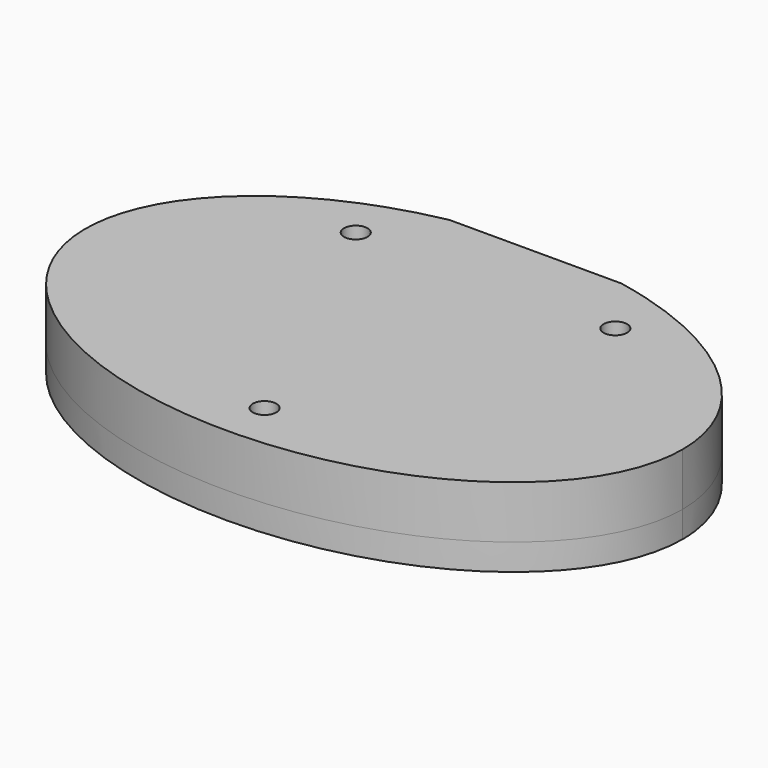
from build123d import *

# Parameters (mm, degrees)
PAD_DEPTH       = 6
POCKET_DEPTH    = 3
PAD001_DEPTH    = 3
SKETCH003_W     = 56
SKETCH003_H     = 3
POCKET001_DEPTH = 3
SKETCH004_W     = 19.6
SKETCH004_H     = 1
POCKET002_DEPTH = 9.001
SKETCH005_R     = 1.34
POCKET003_DEPTH = 9.001


with BuildPart() as part:
    # Sketch → Pad (new body)
    with BuildSketch(Plane.XY):
        with BuildLine():
            add(Edge.make_bspline(
                [(34, 0), (34, 38.971143), (-17, 19.485572), (-68, 0), (-17, -19.485572), (34, -38.971143), (34, 0)],
                knots=[0, 0, 0, 2.094395, 2.094395, 4.18879, 4.18879, 6.283185, 6.283185, 6.283185], degree=2, weights=[1, 0.5, 1, 0.5, 1, 0.5, 1]))
        make_face()
    extrude(amount=PAD_DEPTH)

    # Sketch001 (on Face2 of Pad) → Pocket (cut)
    with BuildSketch(Plane(origin=(0, 0, 0), x_dir=(1, 0, 0), z_dir=(0, 0, -1))):
        Polygon((9.775, -3.450064), (9.775, -21.550064), (-9.775, -21.550064), (-9.775, -3.450064), (-28.5, -3.450064), (-28.5, 8.549936), (28.5, 8.549936), (28.5, -3.450064), align=None)
    extrude(amount=-POCKET_DEPTH, mode=Mode.SUBTRACT)

    # Sketch002 (on Face2 of Pocket) → Pad001 (join)
    with BuildSketch(Plane(origin=(0, 0, 0), x_dir=(1, 0, 0), z_dir=(0, 0, -1))):
        with BuildLine():
            add(Edge.make_bspline(
                [(34, 0), (34, 38.971143), (-17, 19.485572), (-68, 0), (-17, -19.485572), (34, -38.971143), (34, 0)],
                knots=[0, 0, 0, 2.094395, 2.094395, 4.18879, 4.18879, 6.283185, 6.283185, 6.283185], degree=2, weights=[1, 0.5, 1, 0.5, 1, 0.5, 1]))
        make_face()
    extrude(amount=PAD001_DEPTH)

    # Sketch003 (on Face4 of Pad001) → Pocket001 (cut)
    with BuildSketch(Plane(origin=(0, 0, -3), x_dir=(1, 0, 0), z_dir=(0, 0, -1))):
        with Locations((0, 2.549936)):
            Rectangle(SKETCH003_W, SKETCH003_H)
    extrude(amount=-POCKET001_DEPTH, mode=Mode.SUBTRACT)

    # Sketch004 (on Face4 of Pocket001) → Pocket002 (cut, through all)
    with BuildSketch(Plane(origin=(0, 0, -3), x_dir=(1, 0, 0), z_dir=(0, 0, -1))):
        with Locations((0, -22.045091)):
            Rectangle(SKETCH004_W, SKETCH004_H)
    extrude(amount=-POCKET002_DEPTH, mode=Mode.SUBTRACT)

    # Sketch005 (on Face7 of Pocket002) → Pocket003 (cut, through all)
    with BuildSketch(Plane(origin=(0, 0, -3), x_dir=(1, 0, 0), z_dir=(0, 0, -1))):
        with Locations((-14.775, -14.450064)):
            Circle(SKETCH005_R)
        with Locations((0, 17)):
            Circle(SKETCH005_R)
        with Locations((14.775, -14.450064)):
            Circle(SKETCH005_R)
    extrude(amount=-POCKET003_DEPTH, mode=Mode.SUBTRACT)


solid = part.part
